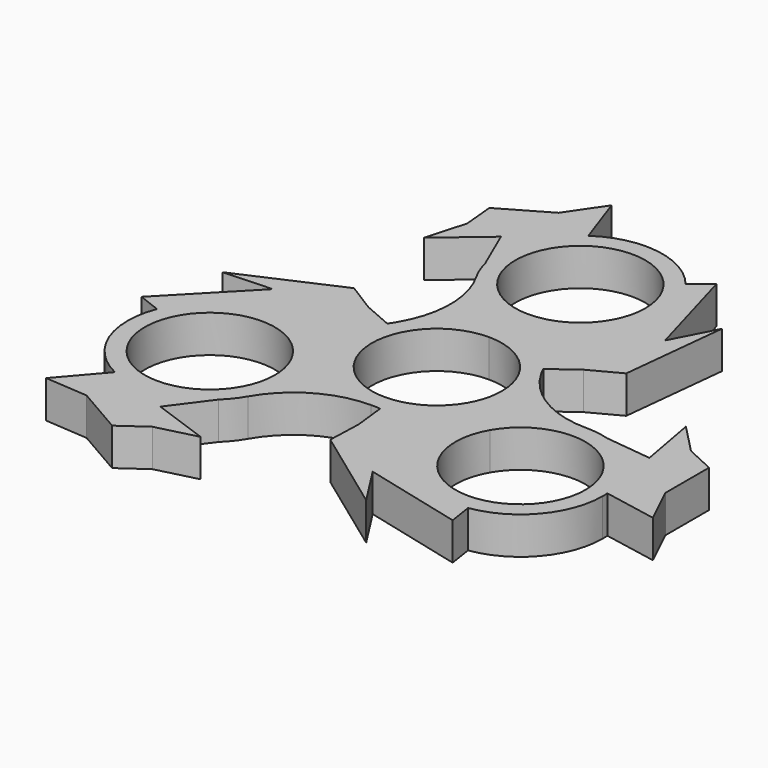
from build123d import *

# Parameters (mm, degrees)
F1_DEPTH = 6.35


with BuildPart() as f1:
    # F0 (on Top) → F1 (new body)
    with BuildSketch(Plane.XY):
        with BuildLine():
            ThreePointArc((12.0983748909, -6.985), (13.4939837933, -3.6157020601), (13.97, 0))
            ThreePointArc((13.97, 0), (13.4939838226, 3.6157019506), (12.0983750042, 6.9849998037))
            ThreePointArc((12.0983750042, 6.9849998037), (11.6864099278, 7.6543270769), (11.2374555691, 8.2994272292))
            ThreePointArc((11.2374555691, 8.2994272292), (6.2935642369, 12.4720467124), (0, 13.97))
            Line((0, 13.97), (0, 11.049))
            ThreePointArc((0, 11.049), (7.8128228253, 7.8128228253), (11.049, 0))
            ThreePointArc((11.049, 0), (10.6725144547, -2.8596916293), (9.5687146864, -5.5245))
            Line((9.5687146864, -5.5245), (12.0983748909, -6.985))
        make_face()
        with BuildLine():
            ThreePointArc((12.0983750042, 6.9849998037), (13.4939838226, 3.6157019506), (13.97, 0))
            ThreePointArc((13.97, 0), (13.4939837933, -3.6157020601), (12.0983748909, -6.985))
            Line((12.0983748909, -6.985), (14.2980794165, -8.255))
            ThreePointArc((14.2980794165, -8.255), (19.4114543073, -3.1416251091), (26.3964543073, -1.27))
            ThreePointArc((26.3964543073, -1.27), (18.1414544055, 0.9419205269), (12.0983750042, 6.9849998037))
        make_face()
        with BuildLine():
            ThreePointArc((11.2374555691, 8.2994272292), (11.6864099278, 7.6543270769), (12.0983750042, 6.9849998037))
            ThreePointArc((12.0983750042, 6.9849998037), (11.7176305412, 7.6827364184), (11.3709095484, 8.3979897181))
            Line((11.3709095484, 8.3979897181), (11.2374555691, 8.2994272292))
        make_face()
        with BuildLine():
            Line((14.2980794165, -8.255), (12.0983748909, -6.985))
            ThreePointArc((12.0983748909, -6.985), (7.6543271717, -11.6864098657), (1.5687870328, -13.8816356113))
            Line((1.5687870328, -13.8816356113), (1.5874176624, -14.0464913921))
            ThreePointArc((1.5874176624, -14.0464913921), (8.9336025837, -16.5958059335), (14.2980794165, -22.225))
            ThreePointArc((14.2980794165, -22.225), (12.4264543073, -15.24), (14.2980794165, -8.255))
        make_face()
        with BuildLine():
            ThreePointArc((1.5687870328, -13.8816356113), (7.6543271717, -11.6864098657), (12.0983748909, -6.985))
            Line((12.0983748909, -6.985), (9.5687146864, -5.5245))
            ThreePointArc((9.5687146864, -5.5245), (5.5245, -9.5687146864), (0, -11.049))
            Line((0, -11.049), (0, -13.97))
            ThreePointArc((8e-10, -13.97), (0.7856368471, -13.9478914085), (1.5687870328, -13.8816356113))
        make_face()
        with BuildLine():
            ThreePointArc((0, 13.97), (6.2935642369, 12.4720467124), (11.2374555691, 8.2994272292))
            Line((11.2374555691, 8.2994272292), (11.3709095484, 8.3979897181))
            ThreePointArc((11.3709095484, 8.3979897181), (9.9055882428, 16.0346297515), (12.0983748909, 23.495))
            ThreePointArc((12.0983748909, 23.495), (6.985, 18.3816251091), (0, 16.51))
            Line((0, 16.51), (0, 13.97))
        make_face()
        with BuildLine():
            ThreePointArc((12.0983748909, 23.495), (9.9055882428, 16.0346297515), (11.3709095484, 8.3979897181))
            Line((11.3709095484, 8.3979897181), (15.6763562571, 11.5777790778))
            Line((15.6763562571, 11.5777790778), (16.7196467519, 28.9592776589))
            Line((16.7196467519, 28.9592776589), (14.0684077992, 41.7739531481))
            Line((14.0684077992, 41.7739531481), (10.8939042526, 39.22549885))
            ThreePointArc((10.8939042526, 39.22549885), (13.1785572505, 35.1153563828), (13.97, 30.48))
            ThreePointArc((13.97, 30.48), (13.4939837933, 26.8642979399), (12.0983748909, 23.495))
        make_face()
        with BuildLine():
            ThreePointArc((30.3624386184, -1.8447818814), (28.4001637278, -1.4144421972), (26.3964543073, -1.27))
            ThreePointArc((26.3964543073, -1.27), (19.4114543073, -3.1416251091), (14.2980794165, -8.255))
            ThreePointArc((14.2980794165, -8.255), (12.4264543073, -15.24), (14.2980794165, -22.225))
            ThreePointArc((14.2980794165, -22.225), (20.3554990408, -27.8363391296), (28.5233263539, -29.0471472541))
            ThreePointArc((28.5233263539, -29.0471472541), (37.0000693157, -24.3352871728), (40.3664543073, -15.24))
            ThreePointArc((40.3664543073, -15.24), (40.3566217968, -14.7159545186), (40.327138106, -14.1926467154))
            ThreePointArc((40.327138106, -14.1926467154), (37.2679824358, -6.4667009538), (30.3624386184, -1.8447818814))
        make_face()
        with BuildLine():
            ThreePointArc((37.4454543073, -15.24), (23.536762678, -25.9125144547), (16.8277396209, -9.7155))
            ThreePointArc((16.8277396209, -9.7155), (29.2561459367, -4.5674855453), (37.4454543073, -15.24))
        make_face(mode=Mode.SUBTRACT)
        with BuildLine():
            Line((1.5874176624, -14.0464913921), (1.5687870328, -13.8816356113))
            ThreePointArc((1.5687870328, -13.8816356113), (0.7856368471, -13.9478914085), (8e-10, -13.97))
            ThreePointArc((8e-10, -13.97), (0.7946297519, -13.9891339355), (1.5874176624, -14.0464913921))
        make_face()
        with BuildLine():
            Line((0, 11.049), (0, 13.97))
            ThreePointArc((0, 13.97), (-6.9849999862, 12.0983748988), (-12.0983748749, 6.9850000276))
            ThreePointArc((-12.0983748749, 6.9850000276), (-12.4720467052, 6.2935642511), (-12.8062426019, 5.5822083821))
            ThreePointArc((-12.8062426019, 5.5822083821), (-13.9478914086, -0.7856368467), (-12.0983748909, -6.985))
            Line((-12.0983748909, -6.985), (-9.5687146864, -5.5245))
            ThreePointArc((-9.5687146864, -5.5245), (-9.5687146864, 5.5245), (0, 11.049))
        make_face()
        with BuildLine():
            ThreePointArc((-12.0983748749, 6.9850000276), (-6.9849999862, 12.0983748988), (0, 13.97))
            Line((0, 13.97), (0, 16.51))
            ThreePointArc((0, 16.51), (-6.985, 18.3816251091), (-12.0983748909, 23.495))
            ThreePointArc((-12.0983748909, 23.495), (-9.8864543073, 15.2400000159), (-12.0983748749, 6.9850000276))
        make_face()
        with BuildLine():
            ThreePointArc((0, 16.51), (6.985, 18.3816251091), (12.0983748909, 23.495))
            ThreePointArc((12.0983748909, 23.495), (13.4939837933, 26.8642979399), (13.97, 30.48))
            ThreePointArc((13.97, 30.48), (13.1785572505, 35.1153563828), (10.8939042526, 39.22549885))
            ThreePointArc((10.8939042526, 39.22549885), (2.0580632257, 44.2975712685), (-7.8723764505, 42.0206494194))
            ThreePointArc((-7.8723764505, 42.0206494194), (-13.0336639132, 35.5083700141), (-13.5835913355, 27.2170341051))
            ThreePointArc((-13.5835913355, 27.2170341051), (-12.9751389889, 25.3024843585), (-12.0983748909, 23.495))
            ThreePointArc((-12.0983748909, 23.495), (-6.985, 18.3816251091), (0, 16.51))
        make_face()
        with BuildLine():
            ThreePointArc((11.049, 30.48), (7.8128228253, 22.6671771747), (0, 19.431))
            ThreePointArc((0, 19.431), (-7.8128228253, 38.2928228253), (11.049, 30.48))
        make_face(mode=Mode.SUBTRACT)
        Polygon((16.7196467519, 28.9592776589), (15.6763562571, 11.5777790778), (20.7640930884, 14.2823638317), (22.6621578626, 32.2282300832), (18.870091234, 24.8967235421), (14.0684077992, 41.7739531481), align=None)
        with BuildLine():
            Line((38.3234498435, -2.7629918247), (30.3624386184, -1.8447818814))
            ThreePointArc((30.3624386184, -1.8447818814), (37.2679824358, -6.4667009538), (40.327138106, -14.1926467154))
            Line((40.327138106, -14.1926467154), (49.4559597003, -15.9205574542))
            Line((49.4559597003, -15.9205574542), (46.265322715, -9.3141412362))
            Line((46.265322715, -9.3141412362), (46.265322715, 0))
            Line((46.265322715, 0), (41.4031764655, 2.2357433816))
            Line((41.4031764655, 2.2357433816), (36.4931114018, 7.2845408358))
            Line((36.4931114018, 7.2845408358), (38.3234498435, -2.7629918247))
        make_face()
        with BuildLine():
            ThreePointArc((-14.2980794165, -22.225), (-8.2549999996, -16.1819205833), (8e-10, -13.97))
            ThreePointArc((8e-10, -13.97), (-6.9849999996, -12.0983748911), (-12.0983748909, -6.985))
            Line((-12.0983748909, -6.985), (-14.2980794165, -8.255))
            ThreePointArc((-14.2980794165, -8.255), (-12.9024705141, -11.6242979399), (-12.4264543073, -15.24))
            ThreePointArc((-12.4264543073, -15.24), (-12.9024705141, -18.8557020601), (-14.2980794165, -22.225))
        make_face()
        with BuildLine():
            ThreePointArc((-12.0983748909, -6.985), (-6.9849999996, -12.0983748911), (8e-10, -13.97))
            Line((0, -13.97), (0, -11.049))
            ThreePointArc((0, -11.049), (-5.5245, -9.5687146864), (-9.5687146864, -5.5245))
            Line((-9.5687146864, -5.5245), (-12.0983748909, -6.985))
        make_face()
        with BuildLine():
            ThreePointArc((14.2980794165, -22.225), (8.9336025837, -16.5958059335), (1.5874176624, -14.0464913921))
            Line((1.5874176624, -14.0464913921), (2.1884726722, -19.3650122963))
            Line((2.1884726722, -19.3650122963), (16.7196467519, -28.9592776589))
            Line((16.7196467519, -28.9592776589), (29.1431007431, -33.0705751189))
            Line((29.1431007431, -33.0705751189), (28.5233263539, -29.0471472541))
            ThreePointArc((28.5233263539, -29.0471472541), (20.3554990408, -27.8363391296), (14.2980794165, -22.225))
        make_face()
        with BuildLine():
            ThreePointArc((-12.8062426019, 5.5822083821), (-12.4720467052, 6.2935642511), (-12.0983748749, 6.9850000276))
            ThreePointArc((-12.0983748749, 6.9850000276), (-12.5122602322, 6.3063974297), (-12.9583272108, 5.648501674))
            Line((-12.9583272108, 5.648501674), (-12.8062426019, 5.5822083821))
        make_face()
        with BuildLine():
            Line((-14.2980794165, -8.255), (-12.0983748909, -6.985))
            ThreePointArc((-12.0983748909, -6.985), (-13.9478914086, -0.7856368467), (-12.8062426019, 5.5822083821))
            Line((-12.8062426019, 5.5822083821), (-12.9583272108, 5.648501674))
            ThreePointArc((-12.9583272108, 5.648501674), (-18.8391908265, 0.561176182), (-26.3964543073, -1.27))
            ThreePointArc((-26.3964543073, -1.27), (-19.4114543073, -3.1416251091), (-14.2980794165, -8.255))
        make_face()
        with BuildLine():
            ThreePointArc((-16.778847283, -25.3722522237), (-15.4250247389, -23.8880421613), (-14.2980794165, -22.225))
            ThreePointArc((-14.2980794165, -22.225), (-12.9024705141, -18.8557020601), (-12.4264543073, -15.24))
            ThreePointArc((-12.4264543073, -15.24), (-12.9024705141, -11.6242979399), (-14.2980794165, -8.255))
            ThreePointArc((-14.2980794165, -8.255), (-19.4114543073, -3.1416251091), (-26.3964543073, -1.27))
            ThreePointArc((-26.3964543073, -1.27), (-34.2847263549, -3.7102097112), (-39.4172306065, -10.1783515958))
            ThreePointArc((-39.4172306065, -10.1783515958), (-39.3918536573, -20.3664505981), (-32.4547616555, -27.828002704))
            ThreePointArc((-32.4547616555, -27.828002704), (-24.2343185226, -29.0416690602), (-16.778847283, -25.3722522237))
        make_face()
        with BuildLine():
            ThreePointArc((-15.3474543073, -15.24), (-37.068968762, -18.0996916293), (-16.8277396209, -9.7155))
            ThreePointArc((-16.8277396209, -9.7155), (-15.7239398527, -12.3803083707), (-15.3474543073, -15.24))
        make_face(mode=Mode.SUBTRACT)
        Polygon((16.7196467519, -28.9592776589), (2.1884726722, -19.3650122963), (1.9868433601, -25.123414017), (16.5793870397, -35.7401194552), (12.1261494415, -28.7903401514), (29.1431007431, -33.0705751189), align=None)
        with BuildLine():
            ThreePointArc((-26.3964543073, -1.27), (-18.8391908265, 0.561176182), (-12.9583272108, 5.648501674))
            Line((-12.9583272108, 5.648501674), (-17.8648289293, 7.7872332186))
            Line((-17.8648289293, 7.7872332186), (-33.4392935038, 0))
            Line((-33.4392935038, 0), (-43.2115085423, -8.7033780292))
            Line((-43.2115085423, -8.7033780292), (-39.4172306065, -10.1783515958))
            ThreePointArc((-39.4172306065, -10.1783515958), (-34.2847263549, -3.7102097112), (-26.3964543073, -1.27))
        make_face()
        with BuildLine():
            Line((-21.5545460324, -31.8075852128), (-16.778847283, -25.3722522237))
            ThreePointArc((-16.778847283, -25.3722522237), (-24.2343185226, -29.0416690602), (-32.4547616555, -27.828002704))
            Line((-32.4547616555, -27.828002704), (-38.5155870479, -34.8698387419))
            Line((-38.5155870479, -34.8698387419), (-31.1989442825, -35.4098741674))
            Line((-31.1989442825, -35.4098741674), (-23.1326613575, -40.0669447855))
            Line((-23.1326613575, -40.0669447855), (-18.7653776679, -36.9740743073))
            Line((-18.7653776679, -36.9740743073), (-11.9379582822, -35.246231955))
            Line((-11.9379582822, -35.246231955), (-21.5545460324, -31.8075852128))
        make_face()
        Polygon((-33.4392935038, 0), (-17.8648289293, 7.7872332186), (-22.7509364486, 10.8410501853), (-39.2415449023, 3.511889372), (-30.9962406754, 3.8936166093), (-43.2115085423, -8.7033780292), align=None)
        with BuildLine():
            Line((-16.7689038112, 34.5705770375), (-13.5835913355, 27.2170341051))
            ThreePointArc((-13.5835913355, 27.2170341051), (-13.0336639132, 35.5083700141), (-7.8723764505, 42.0206494194))
            Line((-7.8723764505, 42.0206494194), (-10.9403726524, 50.7903961961))
            Line((-10.9403726524, 50.7903961961), (-15.0663784325, 44.7240154036))
            Line((-15.0663784325, 44.7240154036), (-23.1326613575, 40.0669447855))
            Line((-23.1326613575, 40.0669447855), (-22.6377987976, 34.7383309257))
            Line((-22.6377987976, 34.7383309257), (-24.5551531196, 27.9616911192))
            Line((-24.5551531196, 27.9616911192), (-16.7689038112, 34.5705770375))
        make_face()
    extrude(amount=F1_DEPTH)


solid = f1.part
